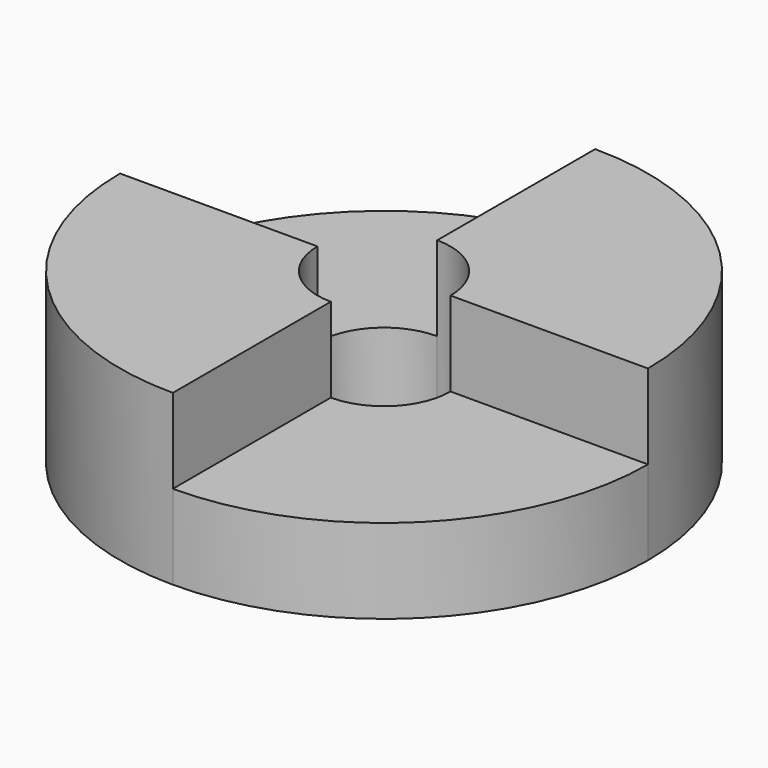
from build123d import *

# Parameters (mm, degrees)
F1_DEPTH = 4
F2_DEPTH = 8


with BuildPart() as f1:
    # F0 (on Top) → F1 (new body)
    with BuildSketch(Plane.XY):
        with BuildLine():
            ThreePointArc((-12.5, 0), (-8.838835, -8.838835), (0, -12.5))
            Line((0, -12.5), (0, -3.15))
            ThreePointArc((0, -3.15), (-2.227386, -2.227386), (-3.15, 0))
            Line((-3.15, 0), (-12.5, 0))
        make_face()
        with BuildLine():
            Line((0, 3.15), (0, 12.5))
            ThreePointArc((0, 12.5), (-8.838835, 8.838835), (-12.5, 0))
            Line((-12.5, 0), (-3.15, 0))
            ThreePointArc((-3.15, 0), (-2.227386, 2.227386), (0, 3.15))
        make_face()
        with BuildLine():
            Line((3.15, 0), (12.5, 0))
            ThreePointArc((12.5, 0), (8.838835, 8.838835), (0, 12.5))
            Line((0, 12.5), (0, 3.15))
            ThreePointArc((0, 3.15), (2.227386, 2.227386), (3.15, 0))
        make_face()
        with BuildLine():
            ThreePointArc((0, -12.5), (8.838835, -8.838835), (12.5, 0))
            Line((12.5, 0), (3.15, 0))
            ThreePointArc((3.15, 0), (2.227386, -2.227386), (0, -3.15))
            Line((0, -3.15), (0, -12.5))
        make_face()
    extrude(amount=F1_DEPTH)

    # F0 (on Top) → F2 (join)
    with BuildSketch(Plane.XY):
        with BuildLine():
            Line((3.15, 0), (12.5, 0))
            ThreePointArc((12.5, 0), (8.838835, 8.838835), (0, 12.5))
            Line((0, 12.5), (0, 3.15))
            ThreePointArc((0, 3.15), (2.227386, 2.227386), (3.15, 0))
        make_face()
        with BuildLine():
            ThreePointArc((-12.5, 0), (-8.838835, -8.838835), (0, -12.5))
            Line((0, -12.5), (0, -3.15))
            ThreePointArc((0, -3.15), (-2.227386, -2.227386), (-3.15, 0))
            Line((-3.15, 0), (-12.5, 0))
        make_face()
    extrude(amount=F2_DEPTH)


solid = f1.part
